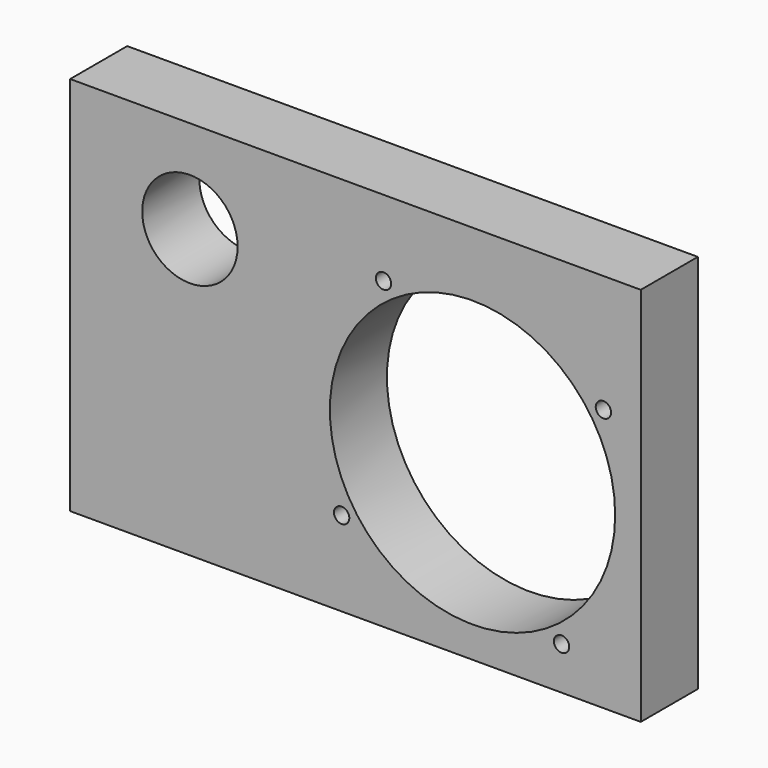
from build123d import *

# Parameters (mm, degrees)
F0_W     = 152.4
F0_H     = 101.6
F0_R     = 38.1
F1_DEPTH = 19.05
F2_R     = 12.742658
F3_DEPTH = 25.4
F4_R     = 2.050488
F5_DEPTH = 25.4


with BuildPart() as f1:
    # F0 (on Front) → F1 (new body)
    with BuildSketch(Plane.XZ):
        with Locations((2.370438, -11.722004)):
            Rectangle(F0_W, F0_H)
        with Locations((33.632447, -16.140074)):
            Circle(F0_R, mode=Mode.SUBTRACT)
    extrude(amount=F1_DEPTH)

    # F2 (on face) → F3 (cut)
    with BuildSketch(Plane.XZ.offset(19.05)):
        with Locations((-41.844524, 14.192783)):
            Circle(F2_R)
    extrude(amount=-F3_DEPTH, mode=Mode.SUBTRACT)

    # F4 (on face) → F5 (cut)
    with BuildSketch(Plane.XZ.offset(19.05)):
        with Locations((9.855603, 18.817487)):
            Circle(F4_R)
        with Locations((-1.325114, -39.916918)):
            Circle(F4_R)
        with Locations((57.409292, -51.097635)):
            Circle(F4_R)
        with Locations((68.590008, 7.636771)):
            Circle(F4_R)
    extrude(amount=-F5_DEPTH, mode=Mode.SUBTRACT)


solid = f1.part
